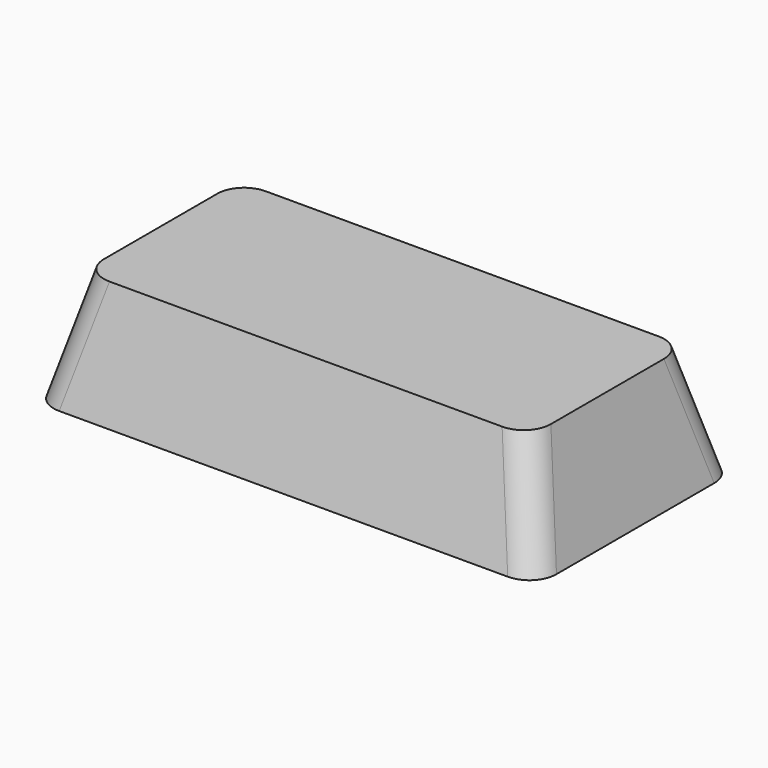
from build123d import *

# Parameters (mm, degrees)
SKETCH_W             = 36
SKETCH_H             = 18
PAD_DEPTH            = 8
POCKET_DEPTH         = 18.001
POCKET001_DEPTH      = 18.001
POCKET001_DEPTH_BACK = 18.001
FILLET_R             = 2
THICKNESS_T          = -1


with BuildPart() as part:
    # Sketch → Pad (new body)
    with BuildSketch(Plane.XY):
        Rectangle(SKETCH_W, SKETCH_H)
    extrude(amount=PAD_DEPTH)

    # Sketch001 (on Face1 of Pad) → Pocket (cut, through all)
    with BuildSketch(Plane.XZ.offset(9)):
        Polygon((-18, 8), (-18, 0), (-16, 8), align=None)
        Polygon((18, 8), (18, 0), (16, 8), align=None)
    extrude(amount=-POCKET_DEPTH, mode=Mode.SUBTRACT)

    # Sketch002 → Pocket001 (cut, two sides)
    with BuildSketch(Plane.YZ) as pocket001_sk:
        Polygon((-9, 8), (-7, 8), (-9, 0), align=None)
        Polygon((9, 8), (7, 8), (9, 0), align=None)
    extrude(amount=-POCKET001_DEPTH, mode=Mode.SUBTRACT)
    extrude(pocket001_sk.sketch, amount=POCKET001_DEPTH_BACK, mode=Mode.SUBTRACT)

    # Fillet
    fillet_edges = [part.edges().sort_by_distance(p)[0] for p in [
        (-17, 8, 4),
        (-17, -8, 4),
        (17, -8, 4),
        (17, 8, 4),
    ]]
    fillet(fillet_edges, radius=FILLET_R)

    # Thickness
    thickness_openings = [part.faces().sort_by_distance(p)[0] for p in [
        (0, 0, 0),
    ]]
    offset(amount=THICKNESS_T, openings=thickness_openings, kind=Kind.INTERSECTION)


solid = part.part
